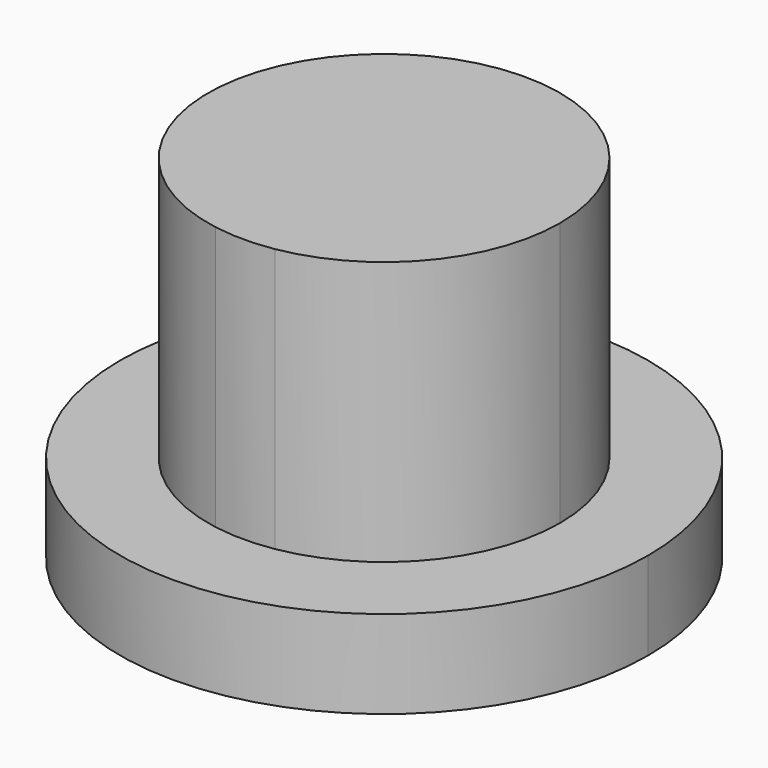
from build123d import *

# Parameters (mm, degrees)
F1_DEPTH = 6.35
F3_DEPTH = 25.4


with BuildPart() as f1:
    # F0 (on Top) → F1 (new body)
    with BuildSketch(Plane.XY):
        with BuildLine():
            ThreePointArc((-19.05, 0), (0, -19.05), (19.05, 0))
            ThreePointArc((19.05, 0), (14.858186, 11.922114), (4.1275, 18.597479))
            Line((4.1275, 18.597479), (1.755614, 12.578069))
            ThreePointArc((1.755614, 12.578069), (0, 11.382858), (-1.755614, 12.578069))
            Line((-1.755614, 12.578069), (-4.1275, 18.597479))
            ThreePointArc((-4.1275, 18.597479), (-14.858186, 11.922114), (-19.05, 0))
        make_face()
        with BuildLine():
            Line((1.755614, 12.578069), (4.1275, 18.597479))
            ThreePointArc((4.1275, 18.597479), (0, 19.05), (-4.1275, 18.597479))
            Line((-4.1275, 18.597479), (-1.755614, 12.578069))
            ThreePointArc((-1.755614, 12.578069), (0, 11.382858), (1.755614, 12.578069))
        make_face()
    extrude(amount=F1_DEPTH)

    # F2 (on face) → F3 (join)
    with BuildSketch(Plane.XY):
        with BuildLine():
            ThreePointArc((2.155994, -12.515658), (9.71265, -8.182569), (12.7, 0))
            ThreePointArc((12.7, 0), (-8.182569, 9.71265), (-2.155994, -12.515658))
            ThreePointArc((-2.155994, -12.515658), (0, -10.894275), (2.155994, -12.515658))
        make_face()
        with BuildLine():
            ThreePointArc((2.155994, -12.515658), (0, -10.894275), (-2.155994, -12.515658))
            ThreePointArc((-2.155994, -12.515658), (0, -12.7), (2.155994, -12.515658))
        make_face()
    extrude(amount=F3_DEPTH)


solid = f1.part
